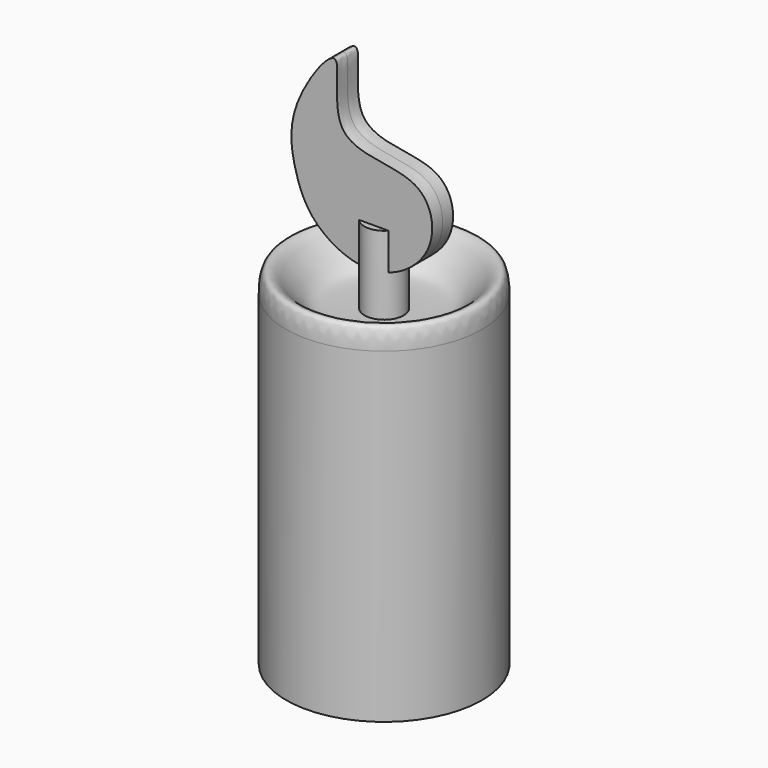
from build123d import *

# Parameters (mm, degrees)
F3_DEPTH = 1
F5_DEPTH = 22


with BuildPart() as f1:
    # F0 (on Front) → F1 (revolve)
    with BuildSketch(Plane.XZ):
        with BuildLine():
            Line((0, 25), (0, 0))
            Line((0, 0), (7.5, 0))
            Line((7.5, 0), (7.5, 25))
            add(Edge.make_bspline(
                [(7.5, 25), (7.5, 27.7293550812), (5.2232004254, 24.8785987129), (4.2837052935, 24.0698828283), (3.4494399973, 24), (1.5, 24)],
                knots=[0, 0, 0, 0, 0.3159507046, 0.6176447617, 1, 1, 1, 1], degree=3))
            Line((1.5, 24), (1.5, 30))
            Line((1.5, 30), (0, 30))
            Line((0, 30), (0, 25))
        make_face()
    revolve(axis=Axis((0, 0, 12.5), (0, 0, 1)))

    # F2 (on Front) → F3 (join, symmetric)
    with BuildSketch(Plane.XZ):
        with BuildLine():
            add(Edge.make_bspline(
                [(0, 26.9477721304), (1.7591886985, 27.0805402808), (5.133113675, 29.3262695999), (4.0989089424, 35.0442071493), (-4.0371644112, 33.8093548315), (-1.7649166522, 42.7749614003), (-6.7165487463, 36.1095453311), (-6.1815955095, 31.9111091088), (-4.7972468562, 28.408081284), (-1.6946518044, 26.8198746593), (0, 26.9477721304)],
                knots=[0, 0, 0, 0, 0.1314530707, 0.2479856097, 0.3890972564, 0.5130554239, 0.63928719, 0.7643858297, 0.8733693642, 1, 1, 1, 1], degree=3))
        make_face()
    extrude(amount=F3_DEPTH, both=True)

    # F4 (on face) → F5 (cut)
    with BuildSketch(Plane(origin=(0, 0, 0), x_dir=(1, 0, 0), z_dir=(0, 0, -1))):
        with BuildLine():
            Line((-1, -5.9160797831), (-1, 5.9160797831))
            ThreePointArc((-1, 5.9160797831), (-6, 0), (-1, -5.9160797831))
        make_face()
        with BuildLine():
            ThreePointArc((1, -5.9160797831), (6, 0), (1, 5.9160797831))
            Line((1, 5.9160797831), (1, -5.9160797831))
        make_face()
    extrude(amount=-F5_DEPTH, mode=Mode.SUBTRACT)


with BuildPart() as f6_1:
    # F6: copy of F1
    add(f1.part)


solid = Compound([f1.part, f6_1.part])
